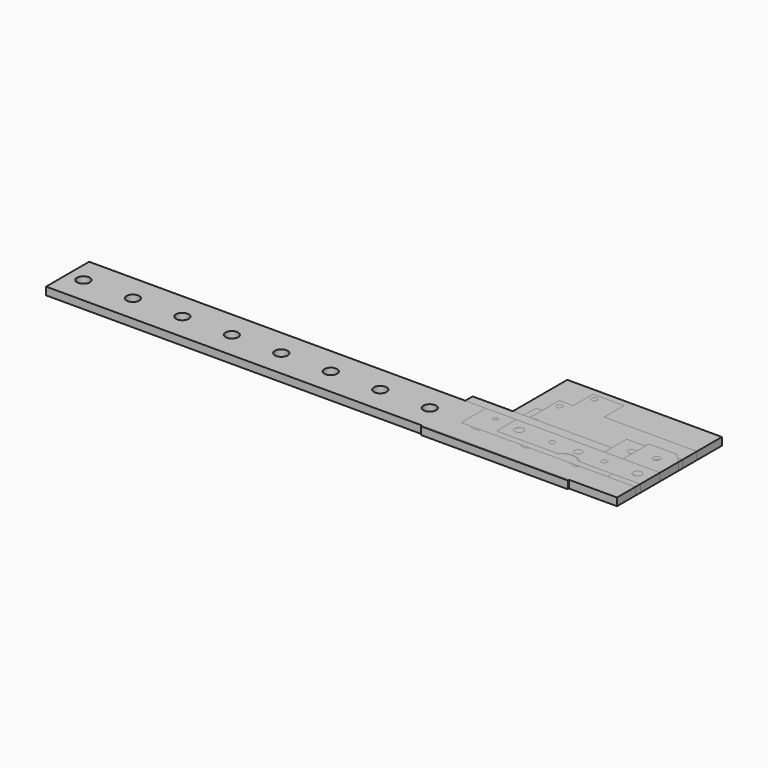
from build123d import *

# Parameters (mm, degrees)
F0_W      = 500
F0_H      = 250
F1_DEPTH  = 25
F2_W      = 319
F2_H      = 97
F3_DEPTH  = 25
F4_W      = 123
F4_H      = 97
F4_R      = 21
F5_DEPTH  = 25
F6_W      = 465
F6_H      = 80
F6_R      = 14
F7_DEPTH  = 25
F8_R      = 9
F9_DEPTH  = 25
F10_W     = 450
F10_H     = 150
F10_R     = 9
F11_DEPTH = 25
F12_W     = 150
F12_H     = 25
F13_DEPTH = 25
F15_DEPTH = 25
F16_W     = 180
F16_H     = 90
F16_R     = 11
F17_DEPTH = 25
F18_W     = 150
F18_H     = 90
F18_R     = 11
F19_DEPTH = 25
F20_W     = 180
F20_H     = 90
F20_R     = 11
F21_DEPTH = 25
F23_DEPTH = 25
F25_DEPTH = 25
F26_W     = 1846
F26_H     = 174
F26_R     = 20.5
F27_DEPTH = 25
F28_W     = 145
F28_H     = 76
F28_R     = 9
F29_DEPTH = 25
F30_W     = 297
F30_H     = 75
F31_DEPTH = 25
F33_DEPTH = 25
F34_W     = 65
F34_H     = 65
F34_R     = 9
F35_DEPTH = 25
F36_R     = 7.351218
F36_R_2   = 6.784511
F36_R_3   = 7.496794
F36_R_4   = 7.13172
F37_DEPTH = 25
F38_R     = 11
F39_DEPTH = 25
F40_W     = 90
F40_H     = 100
F40_R     = 10
F41_DEPTH = 25
F42_R     = 14
F42_R_2   = 12
F43_DEPTH = 25
F44_R     = 14
F44_R_2   = 9
F44_R_3   = 12
F45_DEPTH = 25


with BuildPart() as f1:
    # F0 (on Top) → F1 (new body)
    with BuildSketch(Plane.XY):
        with Locations((-250, 125)):
            Rectangle(F0_W, F0_H)
    extrude(amount=F1_DEPTH)


with BuildPart() as f3:
    # F2 (on Top) → F3 (new body)
    with BuildSketch(Plane.XY):
        with Locations((-159.5, 48.5)):
            Rectangle(F2_W, F2_H)
    extrude(amount=F3_DEPTH)


with BuildPart() as f5:
    # F4 (on Top) → F5 (new body)
    with BuildSketch(Plane.XY):
        with Locations((-61.5, 48.5)):
            Rectangle(F4_W, F4_H)
        with Locations((-61.5, 57)):
            Circle(F4_R, mode=Mode.SUBTRACT)
    extrude(amount=F5_DEPTH)


with BuildPart() as f7:
    # F6 (on Top) → F7 (new body)
    with BuildSketch(Plane.XY):
        with Locations((-232.5, 40)):
            Rectangle(F6_W, F6_H)
        with Locations((-424, 40)):
            Circle(F6_R, mode=Mode.SUBTRACT)
        with Locations((-41, 40)):
            Circle(F6_R, mode=Mode.SUBTRACT)
    extrude(amount=F7_DEPTH)


with BuildPart() as f9:
    # F8 (on Top) → F9 (new body)
    with BuildSketch(Plane.XY):
        Polygon((-300, 0), (0, 0), (0, 149), (-300, 149), (-300, 229.5), (-400, 229.5), (-400, 149), (-445, 149), (-445, 0), (-400, 0), (-400, -80.5), (-300, -80.5), align=None)
        with Locations((-380, -60.5)):
            Circle(F8_R, mode=Mode.SUBTRACT)
        with Locations((-425, 24.5)):
            Circle(F8_R, mode=Mode.SUBTRACT)
        with Locations((-425, 124.5)):
            Circle(F8_R, mode=Mode.SUBTRACT)
        with Locations((-380, 209.5)):
            Circle(F8_R, mode=Mode.SUBTRACT)
    extrude(amount=F9_DEPTH)


with BuildPart() as f11:
    # F10 (on Top) → F11 (new body)
    with BuildSketch(Plane.XY):
        with Locations((-225, -75)):
            Rectangle(F10_W, F10_H)
        with Locations((-25, -125)):
            Circle(F10_R, mode=Mode.SUBTRACT)
        with Locations((-25, -25)):
            Circle(F10_R, mode=Mode.SUBTRACT)
    extrude(amount=F11_DEPTH)


with BuildPart() as f13:
    # F12 (on Top) → F13 (new body)
    with BuildSketch(Plane.XY):
        with Locations((-75, -12.5)):
            Rectangle(F12_W, F12_H)
    extrude(amount=F13_DEPTH)


with BuildPart() as f15:
    # F14 (on Top) → F15 (new body)
    with BuildSketch(Plane.XY):
        Polygon((0, -149), (0, 0), (-155, 0), (-155, 30), (-630, 30), (-630, -179), (-155, -179), (-155, -149), align=None)
        with BuildLine():
            ThreePointArc((-20, -115.5), (-11, -124.5), (-20, -133.5))
            Line((-20, -133.5), (-38, -133.5))
            ThreePointArc((-38, -133.5), (-47, -124.5), (-38, -115.5))
            Line((-38, -115.5), (-20, -115.5))
        make_face(mode=Mode.SUBTRACT)
        with BuildLine():
            ThreePointArc((-20, -15.5), (-11, -24.5), (-20, -33.5))
            Line((-20, -33.5), (-38, -33.5))
            ThreePointArc((-38, -33.5), (-47, -24.5), (-38, -15.5))
            Line((-38, -15.5), (-20, -15.5))
        make_face(mode=Mode.SUBTRACT)
    extrude(amount=F15_DEPTH)


with BuildPart() as f17:
    # F16 (on Top) → F17 (new body)
    with BuildSketch(Plane.XY):
        with Locations((-90, 45)):
            Rectangle(F16_W, F16_H)
        with Locations((-125, 45)):
            Circle(F16_R, mode=Mode.SUBTRACT)
        with Locations((-55, 45)):
            Circle(F16_R, mode=Mode.SUBTRACT)
    extrude(amount=F17_DEPTH)


with BuildPart() as f19:
    # F18 (on Top) → F19 (new body)
    with BuildSketch(Plane.XY):
        with Locations((-75, 45)):
            Rectangle(F18_W, F18_H)
        with Locations((-110, 45)):
            Circle(F18_R, mode=Mode.SUBTRACT)
        with Locations((-45, 45)):
            Circle(F18_R, mode=Mode.SUBTRACT)
    extrude(amount=F19_DEPTH)


with BuildPart() as f21:
    # F20 (on Top) → F21 (new body)
    with BuildSketch(Plane.XY):
        with Locations((-90, 45)):
            Rectangle(F20_W, F20_H)
        with Locations((-128, 45)):
            Circle(F20_R, mode=Mode.SUBTRACT)
        with Locations((-43, 45)):
            Circle(F20_R, mode=Mode.SUBTRACT)
    extrude(amount=F21_DEPTH)


with BuildPart() as f23:
    # F22 (on Top) → F23 (new body)
    with BuildSketch(Plane.XY):
        with BuildLine():
            ThreePointArc((0, -15), (-4.393398, -4.393398), (-15, 0))
            Line((-15, 0), (-109, 0))
            ThreePointArc((-109, 0), (-119.606602, -4.393398), (-124, -15))
            Line((-124, -15), (-124, -65))
            Line((-124, -65), (0, -65))
            Line((0, -65), (0, -15))
        make_face()
    extrude(amount=F23_DEPTH)


with BuildPart() as f25:
    # F24 (on Top) → F25 (new body)
    with BuildSketch(Plane.XY):
        with BuildLine():
            ThreePointArc((0, -15), (-4.393398, -4.393398), (-15, 0))
            Line((-15, 0), (-159, 0))
            ThreePointArc((-159, 0), (-169.606602, -4.393398), (-174, -15))
            Line((-174, -15), (-174, -65))
            Line((-174, -65), (0, -65))
            Line((0, -65), (0, -15))
        make_face()
    extrude(amount=F25_DEPTH)


with BuildPart() as f27:
    # F26 (on Top) → F27 (new body)
    with BuildSketch(Plane.XY):
        with Locations((-923, -87)):
            Rectangle(F26_W, F26_H)
        with Locations((-1795, -87)):
            Circle(F26_R, mode=Mode.SUBTRACT)
        with Locations((-1635, -87)):
            Circle(F26_R, mode=Mode.SUBTRACT)
        with Locations((-1475, -87)):
            Circle(F26_R, mode=Mode.SUBTRACT)
        with Locations((-1315, -87)):
            Circle(F26_R, mode=Mode.SUBTRACT)
        with Locations((-1155, -87)):
            Circle(F26_R, mode=Mode.SUBTRACT)
        with Locations((-995, -87)):
            Circle(F26_R, mode=Mode.SUBTRACT)
        with Locations((-835, -87)):
            Circle(F26_R, mode=Mode.SUBTRACT)
        with Locations((-675, -87)):
            Circle(F26_R, mode=Mode.SUBTRACT)
        with Locations((-515, -87)):
            Circle(F26_R, mode=Mode.SUBTRACT)
        with Locations((-355, -87)):
            Circle(F26_R, mode=Mode.SUBTRACT)
        with Locations((-195, -87)):
            Circle(F26_R, mode=Mode.SUBTRACT)
    extrude(amount=F27_DEPTH)


with BuildPart() as f29:
    # F28 (on Top) → F29 (new body)
    with BuildSketch(Plane.XY):
        with Locations((-72.5, -38)):
            Rectangle(F28_W, F28_H)
        with Locations((-110, -38)):
            Circle(F28_R, mode=Mode.SUBTRACT)
        with Locations((-60, -38)):
            Circle(F28_R, mode=Mode.SUBTRACT)
    extrude(amount=F29_DEPTH)


with BuildPart() as f31:
    # F30 (on Top) → F31 (new body)
    with BuildSketch(Plane.XY):
        with Locations((-148.5, -37.5)):
            Rectangle(F30_W, F30_H)
    extrude(amount=F31_DEPTH)


with BuildPart() as f33:
    # F32 (on Top) → F33 (new body)
    with BuildSketch(Plane.XY):
        Polygon((0, -50), (0, 0), (-75, 0), (-75, -75), (-25, -75), align=None)
    extrude(amount=F33_DEPTH)


with BuildPart() as f35:
    # F34 (on Top) → F35 (new body)
    with BuildSketch(Plane.XY):
        with Locations((-32.5, -32.5)):
            Rectangle(F34_W, F34_H)
        with Locations((-32.5, -32.5)):
            Circle(F34_R, mode=Mode.SUBTRACT)
    extrude(amount=F35_DEPTH)


with BuildPart() as f37:
    # F36 (on Top) → F37 (new body)
    with BuildSketch(Plane.XY):
        Polygon((0, -100), (0, 0), (-175, 0), (-175, -13), (-388, -13), (-388, 0), (-563, 0), (-563, -100), align=None)
        with Locations((-508, -30)):
            Circle(F36_R, mode=Mode.SUBTRACT)
        with Locations((-438, -30)):
            Circle(F36_R_2, mode=Mode.SUBTRACT)
        with Locations((-125, -30)):
            Circle(F36_R_3, mode=Mode.SUBTRACT)
        with Locations((-55, -30)):
            Circle(F36_R_4, mode=Mode.SUBTRACT)
    extrude(amount=F37_DEPTH)


with BuildPart() as f39:
    # F38 (on Top) → F39 (new body)
    with BuildSketch(Plane.XY):
        Polygon((-120, 0), (0, 0), (0, 75), (-30, 105), (-120, 105), align=None)
        with Locations((-55, 55)):
            Circle(F38_R, mode=Mode.SUBTRACT)
    extrude(amount=F39_DEPTH)


with BuildPart() as f41:
    # F40 (on Top) → F41 (new body)
    with BuildSketch(Plane.XY):
        with Locations((-45, -50)):
            Rectangle(F40_W, F40_H)
        with Locations((-45, -60)):
            Circle(F40_R, mode=Mode.SUBTRACT)
    extrude(amount=F41_DEPTH)


with BuildPart() as f43:
    # F42 (on Top) → F43 (new body)
    with BuildSketch(Plane.XY):
        with BuildLine():
            Line((0, -80), (0, 0))
            Line((0, 0), (-465, 0))
            Line((-465, 0), (-465, -80))
            Line((-465, -80), (-264.681611, -80))
            ThreePointArc((-264.681611, -80), (-232.5, -65.338405), (-200.318389, -80))
            Line((-200.318389, -80), (0, -80))
        make_face()
        with Locations((-424, -40)):
            Circle(F42_R, mode=Mode.SUBTRACT)
        with Locations((-232.5, -40)):
            Circle(F42_R_2, mode=Mode.SUBTRACT)
        with Locations((-41, -40)):
            Circle(F42_R, mode=Mode.SUBTRACT)
    extrude(amount=F43_DEPTH)


with BuildPart() as f45:
    # F44 (on Top) → F45 (new body)
    with BuildSketch(Plane.XY):
        with BuildLine():
            Line((0, -80), (0, 0))
            Line((0, 0), (-465, 0))
            Line((-465, 0), (-465, -80))
            Line((-465, -80), (-268.581751, -80))
            ThreePointArc((-268.581751, -80), (-232.5, -63.644089), (-196.418249, -80))
            Line((-196.418249, -80), (0, -80))
        make_face()
        with Locations((-424, -40)):
            Circle(F44_R, mode=Mode.SUBTRACT)
        with Locations((-316.5, -40)):
            Circle(F44_R_2, mode=Mode.SUBTRACT)
        with Locations((-232.5, -40)):
            Circle(F44_R_3, mode=Mode.SUBTRACT)
        with Locations((-148.5, -40)):
            Circle(F44_R_2, mode=Mode.SUBTRACT)
        with Locations((-41, -40)):
            Circle(F44_R, mode=Mode.SUBTRACT)
    extrude(amount=F45_DEPTH)


solid = Compound([f1.part, f3.part, f5.part, f7.part, f9.part, f11.part, f13.part, f15.part, f17.part, f19.part, f21.part, f23.part, f25.part, f27.part, f29.part, f31.part, f33.part, f35.part, f37.part, f39.part, f41.part, f43.part, f45.part])
